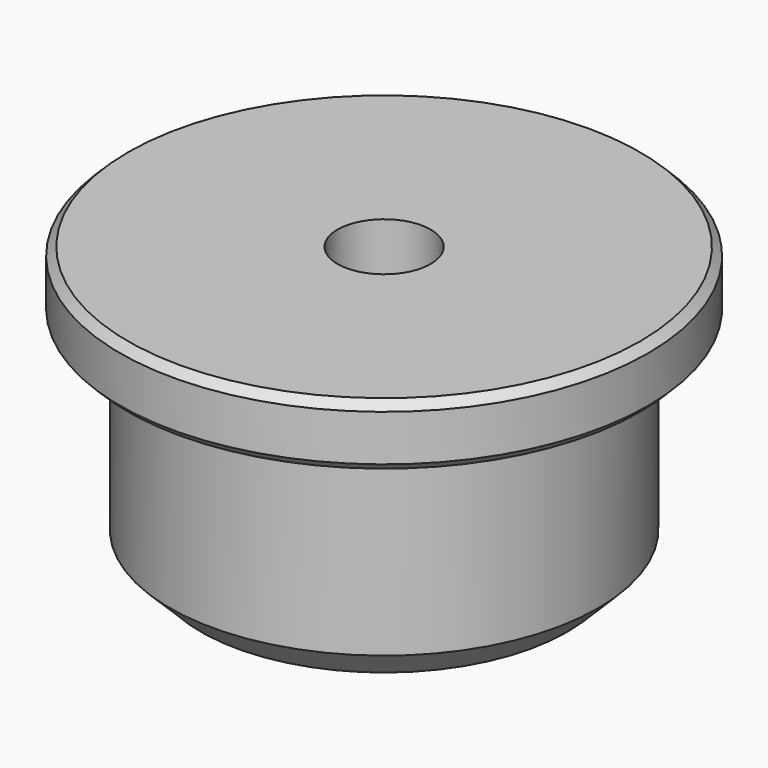
from build123d import *

# Parameters (mm, degrees)
F0_R     = 21.9075
F1_DEPTH = 22.225
F0_R_2   = 26.9875
F2_DEPTH = 6.35
F3_SIZE  = 3.175
F4_SIZE  = 0.8128
F6_D     = 9.525
F6_DEPTH = 19.05
F6_TIP   = 2.8615986981


with BuildPart() as f1:
    # F0 (on Top) → F1 (new body)
    with BuildSketch(Plane.XY):
        Circle(F0_R)
    extrude(amount=-F1_DEPTH)

    # F0 (on Top) → F2 (join)
    with BuildSketch(Plane.XY):
        Circle(F0_R_2)
        Circle(F0_R, mode=Mode.SUBTRACT)
        Circle(F0_R)
    extrude(amount=F2_DEPTH)

    # F3
    f3_edges = [f1.edges().sort_by_distance(p)[0] for p in [
        (-21.9075, 0, -22.225),
    ]]
    chamfer(f3_edges, length=F3_SIZE)

    # F4
    f4_edges = [f1.edges().sort_by_distance(p)[0] for p in [
        (-26.9875, 0, 0),
        (-26.9875, 0, 6.35),
    ]]
    chamfer(f4_edges, length=F4_SIZE)

    # F6
    with Locations(Plane.XY.offset(6.35)):
        with Locations((0, 0)):
            Hole(F6_D / 2, depth=F6_DEPTH)
            with Locations((0, 0, -(F6_DEPTH + F6_TIP / 2))):  # 118° drill point
                Cone(0, F6_D / 2, F6_TIP, mode=Mode.SUBTRACT)


solid = f1.part
